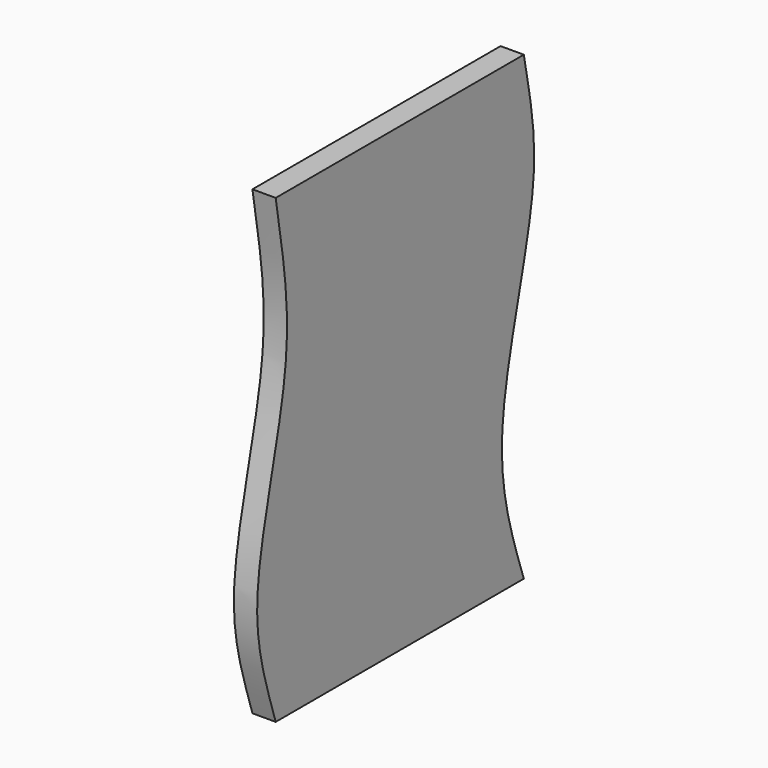
from build123d import *

# Parameters (mm, degrees)
F1_DEPTH = 30.48


with BuildPart() as f1:
    # F0 (on Right) → F1 (new body)
    with BuildSketch(Plane.YZ):
        with BuildLine():
            add(Edge.make_bspline(
                [(0, 604.52), (12.0387033163, 531.3891604082), (37.0939326755, 409.1098594725), (-53.3642412544, 152.0496895395), (-16.529078209, 51.9614371838), (0, 0)],
                knots=[0, 0, 0, 0, 0.3335536204, 0.7063560146, 1, 1, 1, 1], degree=3))
            Line((0, 0), (406.4, 0))
            add(Edge.make_bspline(
                [(406.4, 604.52), (417.1811366284, 547.9339372227), (441.6814345726, 447.4410925618), (344.2235433655, 178.1406212575), (386.501650779, 58.2335634101), (406.4, 0)],
                knots=[0, 0, 0, 0, 0.2974258763, 0.6812391739, 1, 1, 1, 1], degree=3))
            Line((406.4, 604.52), (0, 604.52))
        make_face()
    extrude(amount=F1_DEPTH)


solid = f1.part
